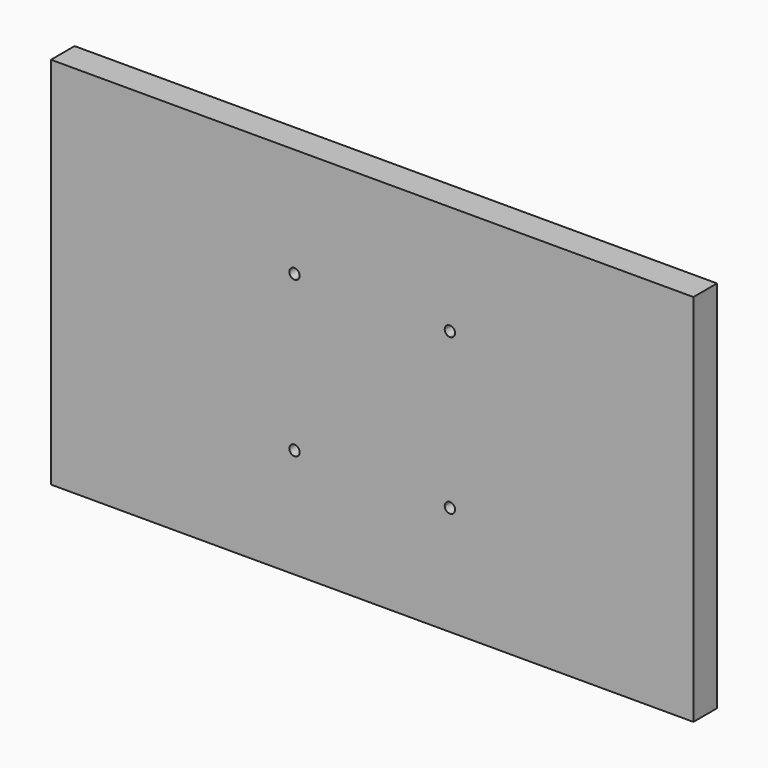
from build123d import *

# Parameters (mm, degrees)
F0_W     = 1240
F0_H     = 722
F1_DEPTH = 57
F2_DEPTH = 60


with BuildPart() as f1:
    # F0 (on Front) → F1 (new body)
    with BuildSketch(Plane.XZ):
        with Locations((30.261490494, 37.9164335803)):
            Rectangle(F0_W, F0_H)
        with BuildLine():
            ThreePointArc((-119.738509506, 177.9164335803), (-126.8095773179, 194.9875013922), (-109.738509506, 187.9164335803))
            Line((-109.738509506, 187.9164335803), (170.261490494, 187.9164335803))
            ThreePointArc((170.261490494, 187.9164335803), (180.261490494, 197.9164335803), (190.261490494, 187.9164335803))
            ThreePointArc((190.261490494, 187.9164335803), (187.3325583059, 180.8453657684), (180.261490494, 177.9164335803))
            Line((180.261490494, 177.9164335803), (180.261490494, -102.0835664197))
            ThreePointArc((180.261490494, -102.0835664197), (187.3325583059, -105.0124986078), (190.261490494, -112.0835664197))
            ThreePointArc((190.261490494, -112.0835664197), (180.261490494, -122.0835664197), (170.261490494, -112.0835664197))
            Line((170.261490494, -112.0835664197), (-109.738509506, -112.0835664197))
            ThreePointArc((-109.738509506, -112.0835664197), (-126.8095773179, -119.1546342316), (-119.738509506, -102.0835664197))
            Line((-119.738509506, -102.0835664197), (-119.738509506, 177.9164335803))
        make_face(mode=Mode.SUBTRACT)
    extrude(amount=-F1_DEPTH)

    # F0 (on Front) → F2 (join)
    with BuildSketch(Plane.XZ):
        with BuildLine():
            Line((170.261490494, 187.9164335803), (-109.738509506, 187.9164335803))
            ThreePointArc((-109.738509506, 187.9164335803), (-112.6674416941, 180.8453657684), (-119.738509506, 177.9164335803))
            Line((-119.738509506, 177.9164335803), (-119.738509506, -102.0835664197))
            ThreePointArc((-119.738509506, -102.0835664197), (-112.6674416941, -105.0124986078), (-109.738509506, -112.0835664197))
            Line((-109.738509506, -112.0835664197), (170.261490494, -112.0835664197))
            ThreePointArc((170.261490494, -112.0835664197), (173.1904226821, -105.0124986078), (180.261490494, -102.0835664197))
            Line((180.261490494, -102.0835664197), (180.261490494, 177.9164335803))
            ThreePointArc((180.261490494, 177.9164335803), (173.1904226821, 180.8453657684), (170.261490494, 187.9164335803))
        make_face()
    extrude(amount=-F2_DEPTH)


solid = f1.part
